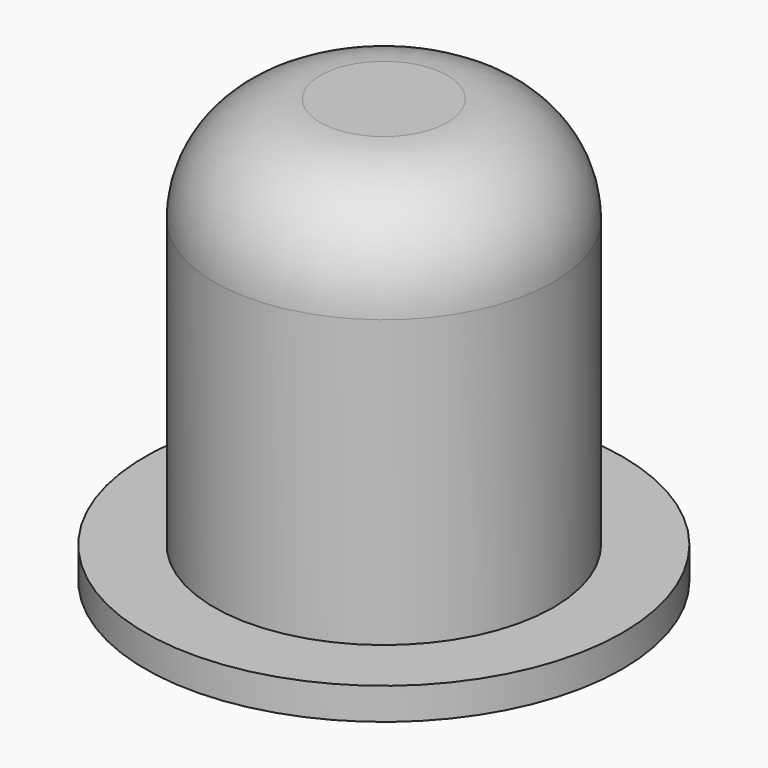
from build123d import *

# Parameters (mm, degrees)
F0_R     = 4.5
F0_R_2   = 3.2
F0_R_3   = 1.3
F1_DEPTH = 0.6
F2_DEPTH = 8
F3_R     = 2
F4_DEPTH = 0.5


with BuildPart() as f1:
    # F0 (on Top) → F1 (new body)
    with BuildSketch(Plane.XY):
        Circle(F0_R)
        Circle(F0_R_2, mode=Mode.SUBTRACT)
        Circle(F0_R_2)
        Circle(F0_R_3, mode=Mode.SUBTRACT)
    extrude(amount=F1_DEPTH)

    # F0 (on Top) → F2 (join)
    with BuildSketch(Plane.XY):
        Circle(F0_R_2)
        Circle(F0_R_3, mode=Mode.SUBTRACT)
        Circle(F0_R_3)
    extrude(amount=F2_DEPTH)

    # F3
    f3_edges = [f1.edges().sort_by_distance(p)[0] for p in [
        (-3.2, 0, 8),
    ]]
    fillet(f3_edges, radius=F3_R)

    # F0 (on Top) → F4 (cut)
    with BuildSketch(Plane.XY):
        Circle(F0_R_3)
    extrude(amount=F4_DEPTH, mode=Mode.SUBTRACT)


solid = f1.part
